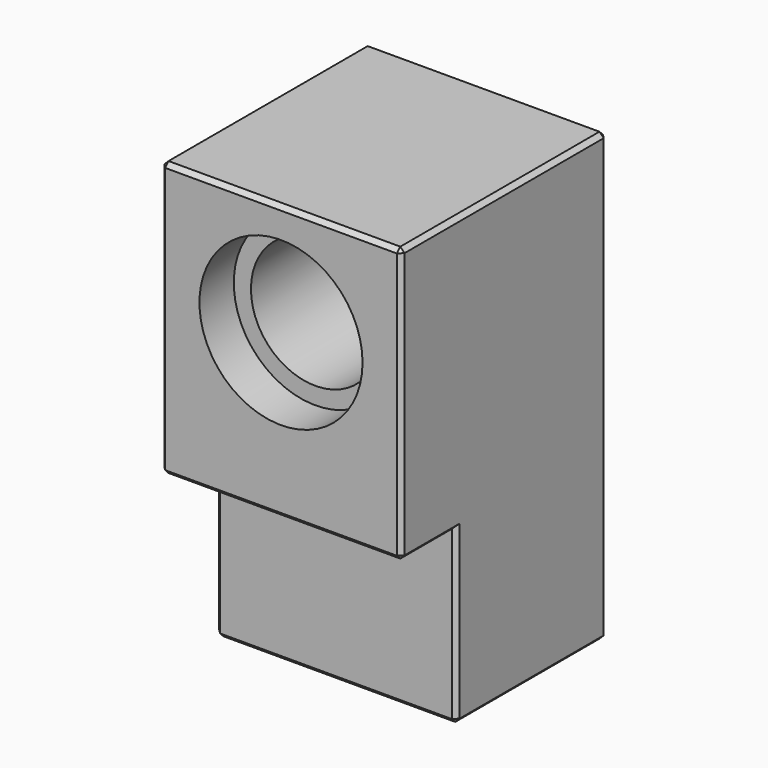
from build123d import *

# Parameters (mm, degrees)
F1_DEPTH       = 14
F2_SIZE        = 0.5
F4_D           = 15
F4_CBORE_D     = 19
F4_CBORE_DEPTH = 5
F6_D           = 15
F6_DEPTH       = 17
F6_CBORE_D     = 19
F6_CBORE_DEPTH = 5
F6_TIP         = 4.5064546427
F8_D           = 4.2
F8_DEPTH       = 17
F8_TIP         = 1.2618073
F9_D           = 3
F9_DEPTH       = 8
F9_TIP         = 0.9012909285


with BuildPart() as f1:
    # F0 (on Right) → F1 (new body, symmetric)
    with BuildSketch(Plane.YZ):
        Polygon((0, 20), (0, 0), (22, 0), (22, 52), (-8, 52), (-8, 20), align=None)
    extrude(amount=F1_DEPTH, both=True)

    # F2
    f2_edges = [f1.edges().sort_by_distance(p)[0] for p in [
        (14, 0, 10),
        (14, 11, 0),
        (14, 22, 26),
        (14, 7, 52),
        (14, -8, 36),
        (14, -4, 20),
        (-14, 0, 10),
        (-14, 11, 0),
        (-14, 22, 26),
        (-14, 7, 52),
        (-14, -8, 36),
        (-14, -4, 20),
        (0, 0, 0),
        (0, 22, 0),
        (0, 22, 52),
        (0, -8, 52),
        (0, -8, 20),
    ]]
    chamfer(f2_edges, length=F2_SIZE)

    # F4 (through all)
    with Locations(Plane.XZ.offset(8)):
        with Locations((0, 39)):
            CounterBoreHole(F4_D / 2, F4_CBORE_D / 2, F4_CBORE_DEPTH)

    # F6
    with Locations(Plane(origin=(0, 22, 0), x_dir=(-1, 0, 0), z_dir=(0, 1, 0))):
        with Locations((0, 39)):
            CounterBoreHole(F6_D / 2, F6_CBORE_D / 2, F6_CBORE_DEPTH, depth=F6_DEPTH)
            with Locations((0, 0, -(F6_DEPTH + F6_TIP / 2))):  # 118° drill point
                Cone(0, F6_D / 2, F6_TIP, mode=Mode.SUBTRACT)

    # F8
    with Locations(Plane(origin=(0, 0, 0), x_dir=(1, 0, 0), z_dir=(0, 0, -1))):
        with Locations((0, -11)):
            Hole(F8_D / 2, depth=F8_DEPTH)
            with Locations((0, 0, -(F8_DEPTH + F8_TIP / 2))):  # 118° drill point
                Cone(0, F8_D / 2, F8_TIP, mode=Mode.SUBTRACT)

    # F9
    with Locations(Plane(origin=(0, 0, 0), x_dir=(1, 0, 0), z_dir=(0, 0, -1))):
        with Locations((-9, -5), (9, -17)):
            Hole(F9_D / 2, depth=F9_DEPTH)
            with Locations((0, 0, -(F9_DEPTH + F9_TIP / 2))):  # 118° drill point
                Cone(0, F9_D / 2, F9_TIP, mode=Mode.SUBTRACT)


solid = f1.part
